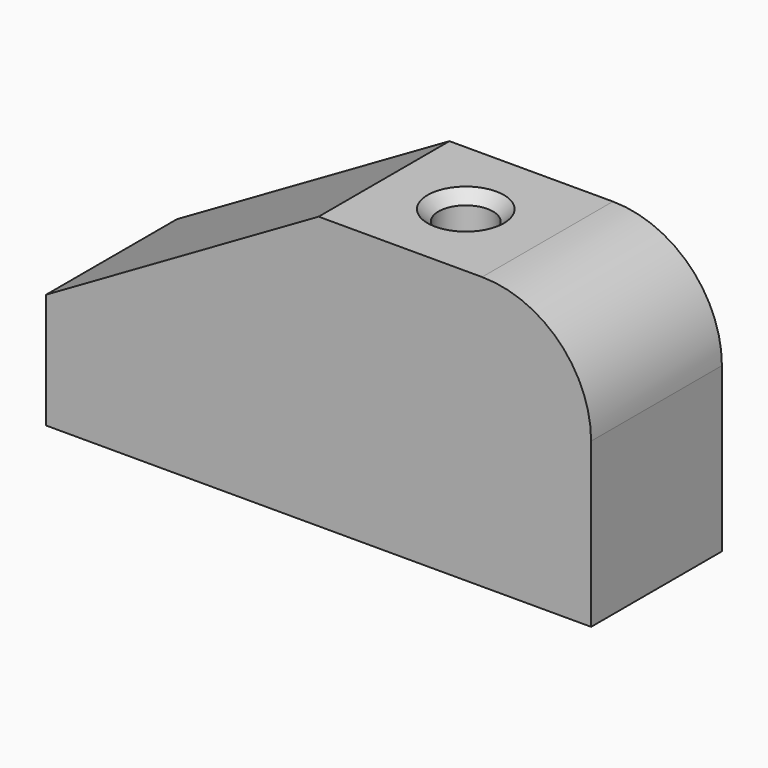
from build123d import *

# Parameters (mm, degrees)
CYLINDER_R             = 5
CYLINDER_DEPTH         = 50
BOX001_W               = 60
BOX001_H               = 30
BOX001_DEPTH           = 30
BOX001_PLACEMENT_ANGLE = 330
BOX_W                  = 100
BOX_H                  = 30
BOX_DEPTH              = 50
FILLET_R               = 20


with BuildPart() as cone:
    # Cone → Cone (revolve)
    with BuildSketch(Plane(origin=(65.002153, 15, 43), x_dir=(1, 0, 0), z_dir=(0, -1, 0))):
        Polygon((0, 0), (7, 7), (0, 7), align=None)
    revolve(axis=Axis((65.002153, 15, 43), (0, 0, 1)))


with BuildPart() as cylinder:
    # Cylinder → Cylinder (new body)
    with BuildSketch(Plane(origin=(65.002153, 15, 0), x_dir=(1, 0, 0), z_dir=(0, 0, 1))):
        Circle(CYLINDER_R)
    extrude(amount=CYLINDER_DEPTH)


with BuildPart() as cube001:
    # Box001 → Box001 (new body)
    with BuildSketch(Plane.XY):
        with Locations((30, 15)):
            Rectangle(BOX001_W, BOX001_H)
    extrude(amount=BOX001_DEPTH)


with BuildPart() as cube001_1:
    # Box001 placement: moved
    add(cube001.part.moved(Location((0, 0, 21.13))).rotate(Axis((0, 0, 21.13), (0, 1, 0)), BOX001_PLACEMENT_ANGLE))


with BuildPart() as cut002:
    # Box → Box (new body)
    with BuildSketch(Plane.XY):
        with Locations((50, 15)):
            Rectangle(BOX_W, BOX_H)
    extrude(amount=BOX_DEPTH)

    # Fillet
    fillet_edges = [cut002.edges().sort_by_distance(p)[0] for p in [
        (100, 15, 50),
    ]]
    fillet(fillet_edges, radius=FILLET_R)

    # Cut: cut Cube001
    add(cube001_1.part, mode=Mode.SUBTRACT)

    # Cut001: cut Cylinder
    add(cylinder.part, mode=Mode.SUBTRACT)

    # Cut002: cut Cone
    add(cone.part, mode=Mode.SUBTRACT)


solid = cut002.part
